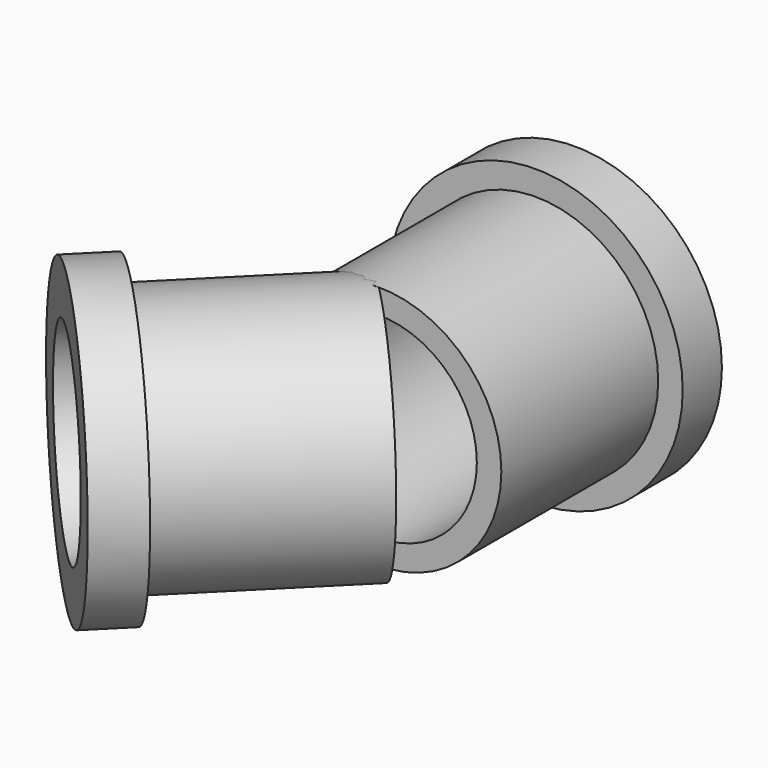
from build123d import *

# Parameters (mm, degrees)
F4_ANGLE = 135


with BuildPart() as f2:
    # F0 (on Top) → F2 (revolve)
    with BuildSketch(Plane.XY):
        Polygon((50.8, 127), (50.8, 0), (63.5, 0), (63.5, 101.6), (76.2, 101.6), (76.2, 127), align=None)
    revolve(axis=Axis((0, 99.222057, 0), (0, 1, 0)))


with BuildPart() as f4_1:
    # F4: copy of F2
    add(f2.part.rotate(Axis((0, 0, 92.391282), (0, 0, 1)), F4_ANGLE))


solid = Compound([f2.part, f4_1.part])
